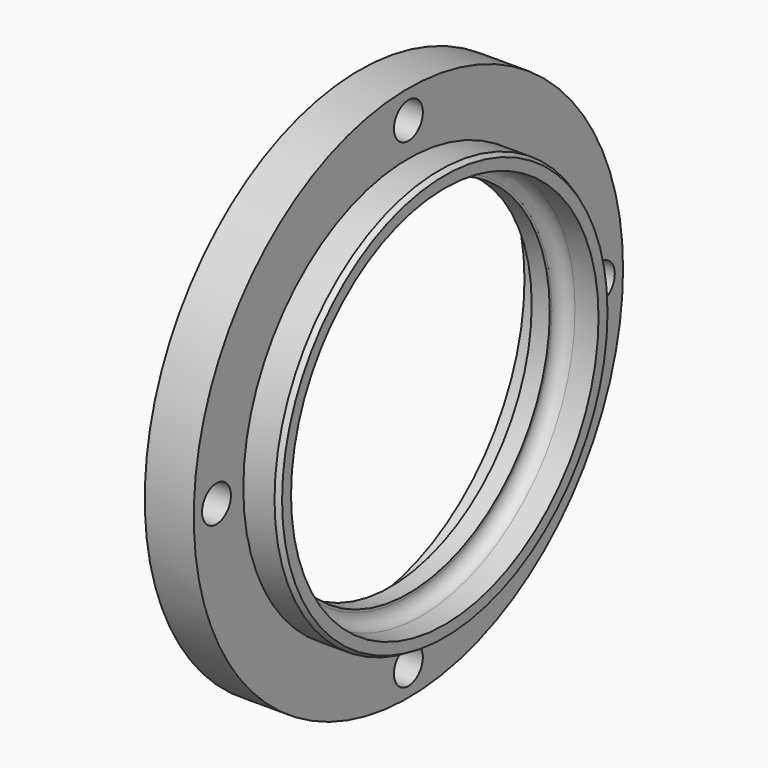
from build123d import *

# Parameters (mm, degrees)
F0_R     = 104
F0_R_2   = 68.5
F1_DEPTH = 19
F2_R     = 80
F2_R_2   = 74.5
F3_DEPTH = 14.1
F4_R     = 80
F5_DEPTH = 12
F6_SIZE2 = 1.1547005384
F6_SIZE  = 2
F7_R     = 5
F9_D     = 14
F9_DEPTH = 25.5
F9_TIP   = 4.2060243332


with BuildPart() as f1:
    # F0 (on Right) → F1 (new body)
    with BuildSketch(Plane.YZ):
        Circle(F0_R)
        Circle(F0_R_2, mode=Mode.SUBTRACT)
    extrude(amount=-F1_DEPTH)

    # F2 (on face) → F3 (join)
    with BuildSketch(Plane.YZ):
        Circle(F2_R)
        Circle(F2_R_2, mode=Mode.SUBTRACT)
    extrude(amount=F3_DEPTH)

    # F4 (on face) → F5 (cut)
    with BuildSketch(Plane(origin=(-19, 0, 0), x_dir=(0, -1, 0), z_dir=(-1, 0, 0))):
        Circle(F4_R)
    extrude(amount=-F5_DEPTH, mode=Mode.SUBTRACT)

    # F6
    f6_edges = [f1.edges().sort_by_distance(p)[0] for p in [
        (14.1, -80, 0),
    ]]
    f6_side = f1.faces().sort_by_distance((7.05, -80, 0))[0]
    chamfer(f6_edges, length=F6_SIZE, length2=F6_SIZE2, reference=f6_side)

    # F7
    f7_edges = [f1.edges().sort_by_distance(p)[0] for p in [
        (0, -74.5, 0),
    ]]
    fillet(f7_edges, radius=F7_R)

    # F9
    with Locations(Plane(origin=(-19, 0, 0), x_dir=(0, -1, 0), z_dir=(-1, 0, 0))):
        with Locations((0, -93), (-93, 0), (0, 93), (93, 0)):
            Hole(F9_D / 2, depth=F9_DEPTH)
            with Locations((0, 0, -(F9_DEPTH + F9_TIP / 2))):  # 118° drill point
                Cone(0, F9_D / 2, F9_TIP, mode=Mode.SUBTRACT)


solid = f1.part
